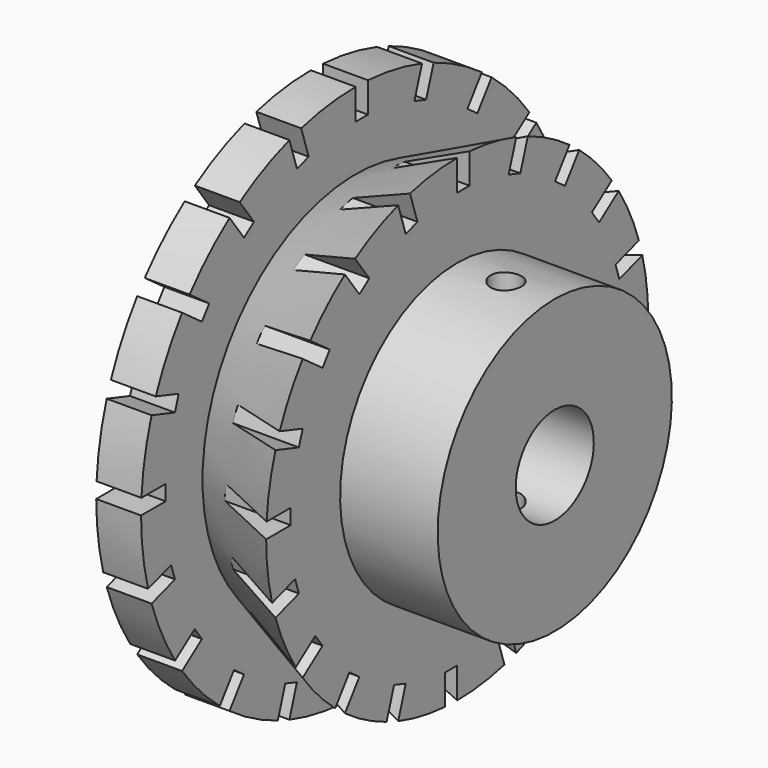
from build123d import *

# Parameters (mm, degrees)
F4_DEPTH  = 27.0135
F8_W      = 1
F8_H      = 3
F8_W_2    = 3
F8_H_2    = 1
F9_DEPTH  = 2.920182
F10_W     = 1
F10_H     = 2.867736
F10_W_2   = 2.867736
F10_H_2   = 1
F11_DEPTH = 5


with BuildPart() as f1:
    # F0 (on Front) → F1 (revolve)
    with BuildSketch(Plane.XZ):
        Polygon((-2.131164, 3.175), (13.743836, 3.175), (13.743836, 9.525), (7.393836, 9.525), (7.393836, 17.4625), (-2.131164, 17.4625), align=None)
    revolve(axis=Axis((-0.144044, 0, 0), (-1, 0, 0)))

    # F3 (on offset) → F4 (cut, through all)
    with BuildSketch(Plane.XY.offset(9.55)):
        with BuildLine():
            Line((9.568836, 0), (11.568836, 0))
            ThreePointArc((11.568836, 0), (10.568836, 1), (9.568836, 0))
        make_face()
        with BuildLine():
            ThreePointArc((9.568836, 0), (10.568836, -1), (11.568836, 0))
            Line((11.568836, 0), (9.568836, 0))
        make_face()
    extrude(amount=-F4_DEPTH, mode=Mode.SUBTRACT)

    # F6 (on Top) → F7 (revolve, cut)
    with BuildSketch(Plane.XY):
        Polygon((7.393836, 17.4625), (0.788018, 17.4625), (0.788018, 12.4625), (7.393836, 15.542844), align=None)
    revolve(axis=Axis((5.807324, 0, 0), (1, 0, 0)), mode=Mode.SUBTRACT)

    # F8 (on face) → F9 (cut, through all)
    with BuildSketch(Plane.YZ.offset(0.788018)):
        with Locations((0.5, 16.9625)):
            Rectangle(F8_W, F8_H)
        Polygon((-3.827119, 15.014728), (-4.75417, 17.867898), (-5.705226, 17.558881), (-4.778175, 14.705711), align=None)
        Polygon((-8.279612, 13.097211), (-10.042968, 15.524262), (-10.851985, 14.936476), (-9.088629, 12.509425), align=None)
        Polygon((-11.92164, 9.897646), (-14.348691, 11.661002), (-14.936476, 10.851985), (-12.509425, 9.088629), align=None)
        Polygon((-14.396694, 5.729232), (-17.249864, 6.656283), (-17.558881, 5.705226), (-14.705711, 4.778175), align=None)
        with Locations((-16.9625, 0.5)):
            Rectangle(F8_W_2, F8_H_2)
        Polygon((-15.014728, -3.827119), (-17.867898, -4.75417), (-17.558881, -5.705226), (-14.705711, -4.778175), align=None)
        Polygon((-13.097211, -8.279612), (-15.524262, -10.042968), (-14.936476, -10.851985), (-12.509425, -9.088629), align=None)
        Polygon((-9.897646, -11.92164), (-11.661002, -14.348691), (-10.851985, -14.936476), (-9.088629, -12.509425), align=None)
        Polygon((-5.729232, -14.396694), (-6.656283, -17.249864), (-5.705226, -17.558881), (-4.778175, -14.705711), align=None)
        with Locations((-0.5, -16.9625)):
            Rectangle(F8_W, F8_H)
        Polygon((3.827119, -15.014728), (4.75417, -17.867898), (5.705226, -17.558881), (4.778175, -14.705711), align=None)
        Polygon((8.279612, -13.097211), (10.042968, -15.524262), (10.851985, -14.936476), (9.088629, -12.509425), align=None)
        Polygon((11.92164, -9.897646), (14.348691, -11.661002), (14.936476, -10.851985), (12.509425, -9.088629), align=None)
        Polygon((14.396694, -5.729232), (17.249864, -6.656283), (17.558881, -5.705226), (14.705711, -4.778175), align=None)
        with Locations((16.9625, -0.5)):
            Rectangle(F8_W_2, F8_H_2)
        Polygon((15.014728, 3.827119), (17.867898, 4.75417), (17.558881, 5.705226), (14.705711, 4.778175), align=None)
        Polygon((13.097211, 8.279612), (15.524262, 10.042968), (14.936476, 10.851985), (12.509425, 9.088629), align=None)
        Polygon((9.897646, 11.92164), (11.661002, 14.348691), (10.851985, 14.936476), (9.088629, 12.509425), align=None)
        Polygon((5.729232, 14.396694), (6.656283, 17.249864), (5.705226, 17.558881), (4.778175, 14.705711), align=None)
    extrude(amount=-F9_DEPTH, mode=Mode.SUBTRACT)

    # F10 (on face) → F11 (cut)
    with BuildSketch(Plane.YZ.offset(7.393836)):
        with Locations((0.5, 14.976712)):
            Rectangle(F10_W, F10_H)
        Polygon((-4.184969, 12.88001), (-3.233912, 13.189027), (-4.120092, 15.916406), (-5.071148, 15.607389), align=None)
        Polygon((-7.960284, 10.956391), (-7.151267, 11.544176), (-8.83688, 13.864223), (-9.645897, 13.276438), align=None)
        Polygon((-10.956391, 7.960284), (-10.368605, 8.769301), (-12.688653, 10.454914), (-13.276438, 9.645897), align=None)
        Polygon((-12.88001, 4.184969), (-12.570993, 5.136025), (-15.298372, 6.022205), (-15.607389, 5.071148), align=None)
        with Locations((-14.976712, 0.5)):
            Rectangle(F10_W_2, F10_H_2)
        Polygon((-12.88001, -4.184969), (-13.189027, -3.233912), (-15.916406, -4.120092), (-15.607389, -5.071148), align=None)
        Polygon((-10.956391, -7.960284), (-11.544176, -7.151267), (-13.864223, -8.83688), (-13.276438, -9.645897), align=None)
        Polygon((-7.960284, -10.956391), (-8.769301, -10.368605), (-10.454914, -12.688653), (-9.645897, -13.276438), align=None)
        Polygon((-4.184969, -12.88001), (-5.136025, -12.570993), (-6.022205, -15.298372), (-5.071148, -15.607389), align=None)
        with Locations((-0.5, -14.976712)):
            Rectangle(F10_W, F10_H)
        Polygon((4.184969, -12.88001), (3.233912, -13.189027), (4.120092, -15.916406), (5.071148, -15.607389), align=None)
        Polygon((7.960284, -10.956391), (7.151267, -11.544176), (8.83688, -13.864223), (9.645897, -13.276438), align=None)
        Polygon((10.956391, -7.960284), (10.368605, -8.769301), (12.688653, -10.454914), (13.276438, -9.645897), align=None)
        Polygon((12.88001, -4.184969), (12.570993, -5.136025), (15.298372, -6.022205), (15.607389, -5.071148), align=None)
        with Locations((14.976712, -0.5)):
            Rectangle(F10_W_2, F10_H_2)
        Polygon((12.88001, 4.184969), (13.189027, 3.233912), (15.916406, 4.120092), (15.607389, 5.071148), align=None)
        Polygon((10.956391, 7.960284), (11.544176, 7.151267), (13.864223, 8.83688), (13.276438, 9.645897), align=None)
        Polygon((7.960284, 10.956391), (8.769301, 10.368605), (10.454914, 12.688653), (9.645897, 13.276438), align=None)
        Polygon((4.184969, 12.88001), (5.136025, 12.570993), (6.022205, 15.298372), (5.071148, 15.607389), align=None)
    extrude(amount=-F11_DEPTH, mode=Mode.SUBTRACT)


solid = f1.part
